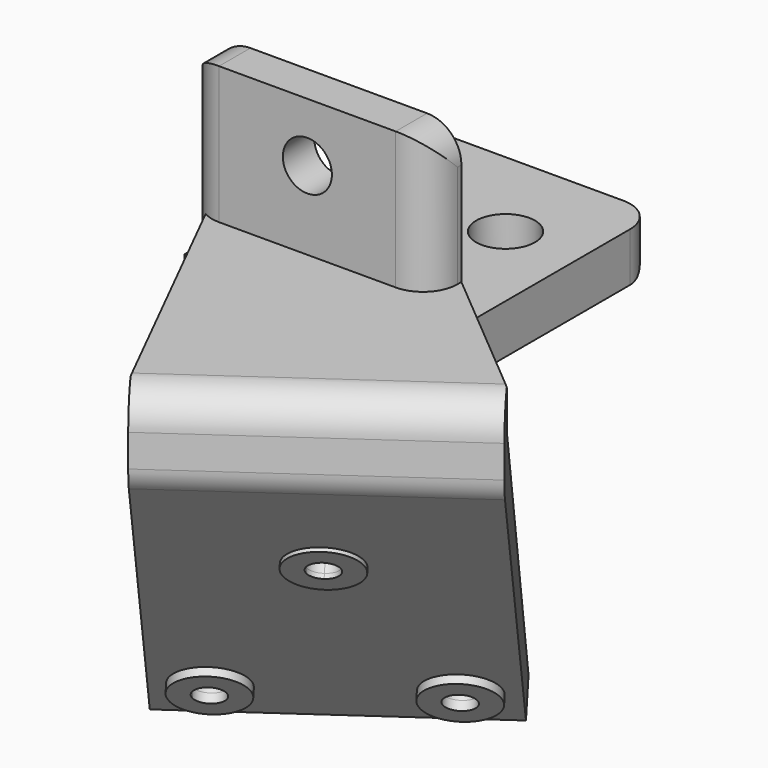
from build123d import *

# Parameters (mm, degrees)
F0_W      = 25
F0_H      = 25
F0_R      = 3
F1_DEPTH  = 5
F0_H_2    = 4
F2_DEPTH  = 18
F3_DEPTH  = 5
F4_R      = 2.5
F5_DEPTH  = 4
F7_DEPTH  = 4
F8_W      = 30
F8_H      = 8
F9_DEPTH  = 3
F11_DEPTH = 30
F12_R     = 3.5
F12_2_R   = 3.5
F12_3_R   = 3.5
F12_4_R   = 3.5
F13_R     = 3.5
F13_R_2   = 1.5
F14_DEPTH = 2
F15_DEPTH = 10
F16_DEPTH = 7


with BuildPart() as f1:
    # F0 (on Top) → F1 (new body)
    with BuildSketch(Plane.XY):
        with Locations((0, 12.5)):
            Rectangle(F0_W, F0_H)
        with Locations((5, 15)):
            Circle(F0_R, mode=Mode.SUBTRACT)
    extrude(amount=-F1_DEPTH)

    # F12
    f12_edges = [f1.edges().sort_by_distance(p)[0] for p in [
        (0, 25, -5),
        (12.5, 25, -2.5),
        (-12.5, 25, -2.5),
    ]]
    fillet(f12_edges, radius=F12_R)


with BuildPart() as f2:
    # F0 (on Top) → F2 (new body)
    with BuildSketch(Plane.XY):
        with Locations((0, -2)):
            Rectangle(F0_W, F0_H_2)
    extrude(amount=F2_DEPTH)


with BuildPart() as f3:
    # F3 (new): a face of the model
    f3_faces = [f2.part.faces().sort_by_distance(p)[0] for p in [
        (0, -2, 0),
    ]]
    extrude(f3_faces, amount=F3_DEPTH)

    # F12#3
    f12_3_edges = [f3.edges().sort_by_distance(p)[0] for p in [
        (12.5, -4, -2.5),
    ]]
    fillet(f12_3_edges, radius=F12_3_R)


with BuildPart() as f2_1:
    add(f2.part)

    # F4 (on face) → F5 (cut)
    with BuildSketch(Plane(origin=(0, 0, 0), x_dir=(-1, 0, 0), z_dir=(0, 1, 0))):
        with Locations((0, 12)):
            Circle(F4_R)
    extrude(amount=-F5_DEPTH, mode=Mode.SUBTRACT)

    # F12#2
    f12_2_edges = [f2_1.edges().sort_by_distance(p)[0] for p in [
        (12.5, -4, 9),
        (-12.5, -2, 18),
        (12.5, -2, 18),
        (-12.5, -4, 9),
    ]]
    fillet(f12_2_edges, radius=F12_2_R)


with BuildPart() as f7:
    # F6 (on Top) → F7 (new body, symmetric)
    with BuildSketch(Plane.XY):
        Polygon((14.3394109088, -20.4788011072), (0, 0), (-12.5, 0), (2.0521302444, -29.0824476525), align=None)
        Polygon((12.5, 0), (0, 0), (14.3394109088, -20.4788011072), (26.6266915731, -11.875154562), align=None)
    extrude(amount=F7_DEPTH, both=True)

    # F8 (on face) → F9 (join)
    with BuildSketch(Plane(origin=(14.3394109088, -20.4788011072, 0), x_dir=(0.8191520443, 0.5735764364, 0), z_dir=(0.5735764364, -0.8191520443, 0))):
        Rectangle(F8_W, F8_H)
    extrude(amount=F9_DEPTH)

    # F10 (on face) → F11 (join, through all)
    with BuildSketch(Plane(origin=(12.2872806643, 8.6036465453, 0), x_dir=(-0.5735764364, 0.8191520443, 0), z_dir=(0.8191520443, 0.5735764364, 0))):
        Polygon((-1.1037908826, -38.339035595), (2.0907511576, -35.9317755024), (-25, 0.0188655351), (-25, -4), (-28, -4), align=None)
        Polygon((-25, -4), (-25, 0.0188655351), (-28, 4), (-28, -4), align=None)
        Polygon((-1.1037908826, -38.339035595), (2.0907511576, -35.9317755024), (-25, 0.0188655351), (-25, -4), (-28, -4), align=None)
    extrude(amount=-F11_DEPTH)

    # F12#4
    f12_4_edges = [f7.edges().sort_by_distance(p)[0] for p in [
        (16.06014, -22.936257, 4),
        (16.06014, -22.936257, -4),
        (12.454755, -18.101418, -4),
    ]]
    fillet(f12_4_edges, radius=F12_4_R)

    # F13 (on face) → F15 (cut, symmetric)
    with BuildSketch(Plane(origin=(9.1407432849, -13.0543343024, -12.0089384548), x_dir=(-0.8889117385, -0.3371276804, -0.3101303729), z_dir=(-0.4580785098, 0.6542039107, 0.6018150232))):
        with Locations((0.4752934415, -26.8795094532)):
            Circle(F13_R_2)
        with BuildLine():
            ThreePointArc((1.9872074921, -1.1561765378), (-0.7625388666, -0.3266380884), (1.06969544, -2.5384600798))
            ThreePointArc((1.06969544, -2.5384600798), (1.7369538507, -1.9857149872), (1.9872074921, -1.1561765378))
        make_face()
        with BuildLine():
            ThreePointArc((20.4057406689, -19.1130034801), (18.6086088067, -17.6427270923), (17.5234571269, -19.695491428))
            ThreePointArc((17.5234571269, -19.695491428), (19.202872531, -20.5832798679), (20.4057406689, -19.1130034801))
        make_face()
    extrude(amount=F15_DEPTH, both=True, mode=Mode.SUBTRACT)



with BuildPart() as f14:
    # F13 (on face) → F14 (new body)
    with BuildSketch(Plane(origin=(9.1407432849, -13.0543343024, -12.0089384548), x_dir=(-0.8889117385, -0.3371276804, -0.3101303729), z_dir=(-0.4580785098, 0.6542039107, 0.6018150232))):
        with BuildLine():
            ThreePointArc((3.9872074921, -1.1561765378), (-2.4288673448, 0.7794131775), (1.8463460373, -4.3815048024))
            ThreePointArc((1.8463460373, -4.3815048024), (3.4032823289, -3.091766253), (3.9872074921, -1.1561765378))
        make_face()
        with BuildLine():
            ThreePointArc((1.9872074921, -1.1561765378), (1.7369538507, -1.9857149872), (1.06969544, -2.5384600798))
            ThreePointArc((1.06969544, -2.5384600798), (-0.7625388666, -0.3266380884), (1.9872074921, -1.1561765378))
        make_face(mode=Mode.SUBTRACT)
        with Locations((0.4752934415, -26.8795094532)):
            Circle(F13_R)
        with Locations((0.4752934415, -26.8795094532)):
            Circle(F13_R_2, mode=Mode.SUBTRACT)
        with BuildLine():
            ThreePointArc((22.4057406689, -19.1130034801), (18.2124329906, -15.6823585752), (15.6804124042, -20.4721420253))
            ThreePointArc((15.6804124042, -20.4721420253), (19.5990483472, -22.5436483849), (22.4057406689, -19.1130034801))
        make_face()
        with BuildLine():
            ThreePointArc((20.4057406689, -19.1130034801), (19.202872531, -20.5832798679), (17.5234571269, -19.695491428))
            ThreePointArc((17.5234571269, -19.695491428), (18.6086088067, -17.6427270923), (20.4057406689, -19.1130034801))
        make_face(mode=Mode.SUBTRACT)
    extrude(amount=F14_DEPTH)


with BuildPart() as f7_1:
    add(f7.part)
    # F16 (add): faces of the model
    f16_faces = [f14.part.faces().sort_by_distance(p)[0] for p in [
        (8.9654842523, -12.8040384631, -9.0911430873),
        (10.8252856581, 7.4384982699, -29.6802130839),
        (-11.3668887804, -7.1303397584, -30.7349680486),
    ]]

    add(f14.part)  # F16 merges F14
    extrude(f16_faces, amount=-F16_DEPTH)


solid = Compound([f1.part, f3.part, f2_1.part, f7_1.part])
